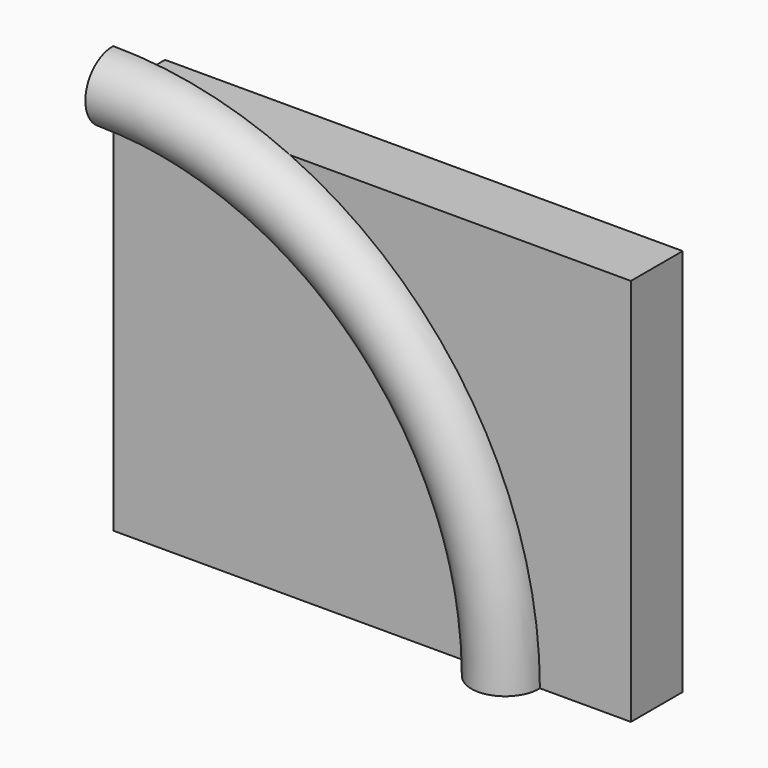
from build123d import *

# Parameters (mm, degrees)
F0_W     = 101.6
F0_H     = 76.2
F1_DEPTH = 12.7


with BuildPart() as f1:
    # F0 (on Front) → F1 (new body)
    with BuildSketch(Plane.XZ):
        with Locations((50.8, 38.1)):
            Rectangle(F0_W, F0_H)
    extrude(amount=F1_DEPTH)

    # F4: sweep along a path in F2
    with BuildLine(Plane.XZ.offset(12.7)) as f4_path:
        ThreePointArc((0, 76.2), (53.881537, 53.881537), (76.2, 0))
    # F3 (on face) → F4 (sweep)
    with BuildSketch(Plane(origin=(0, 0, 0), x_dir=(1, 0, 0), z_dir=(0, 0, -1))):
        with BuildLine():
            Line((70.45833, 12.7), (83.739914, 12.7))
            ThreePointArc((83.739914, 12.7), (77.099122, 19.556631), (70.45833, 12.7))
        make_face()
    sweep(path=f4_path.line)


solid = f1.part
